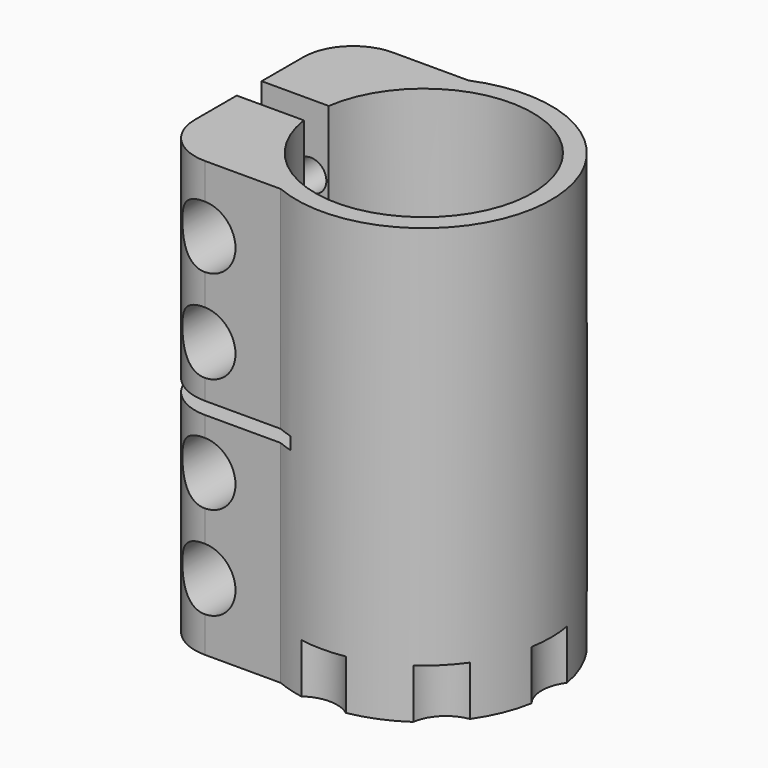
from build123d import *

# Parameters (mm, degrees)
F1_DEPTH       = 35
F3_D           = 5
F3_START       = 1.8205079
F3_CBORE_D     = 10
F3_CBORE_DEPTH = 8
F4_W           = 22.4
F4_H           = 2
F5_DEPTH       = 25
F6_R           = 6
F7_DEPTH       = 8


with BuildPart() as f1:
    # F0 (on Top) → F1 (new body, symmetric)
    with BuildSketch(Plane.XY):
        with BuildLine():
            ThreePointArc((-17.3192642082, 2.5086026559), (17.5, 0), (-17.3192642082, -2.5086026559))
            Line((-17.3192642082, -2.5086026559), (-28.1192642082, -2.5086026559))
            Line((-28.1192642082, -2.5086026559), (-28.1192642082, -10.9086026559))
            ThreePointArc((-28.1192642082, -10.9086026559), (-25.7761184577, -16.5654569054), (-20.1192642082, -18.9086026559))
            Line((-20.1192642082, -18.9086026559), (-7.9192642082, -18.9086026559))
            ThreePointArc((-7.9192642082, -18.9086026559), (20.5, 0), (-7.9192642082, 18.9086026559))
            Line((-7.9192642082, 18.9086026559), (-20.1192642082, 18.9086026559))
            ThreePointArc((-20.1192642082, 18.9086026559), (-25.7761184577, 16.5654569054), (-28.1192642082, 10.9086026559))
            Line((-28.1192642082, 10.9086026559), (-28.1192642082, 2.5086026559))
            Line((-28.1192642082, 2.5086026559), (-17.3192642082, 2.5086026559))
        make_face()
    extrude(amount=F1_DEPTH, both=True)

    # F3 (through all)
    # its depths count from where the whole tool has entered the part; down to there all is cleared
    with Locations(Plane.XZ.offset(18.9086026559).offset(-F3_START)):
        with Locations((-20.2, -24.25), (-20.2, -9.25), (-20.2, 9.25), (-20.2, 24.25)):
            CounterBoreHole(F3_D / 2, F3_CBORE_D / 2, F3_CBORE_DEPTH)

    # F4 (on Front) → F5 (cut, symmetric)
    with BuildSketch(Plane.XZ):
        with Locations((-16.9192642082, 0)):
            Rectangle(F4_W, F4_H)
    extrude(amount=F5_DEPTH, both=True, mode=Mode.SUBTRACT)

    # F6 (on face) → F7 (cut)
    with BuildSketch(Plane(origin=(0, 0, -35), x_dir=(1, 0, 0), z_dir=(0, 0, -1))):
        with Locations((0, 25)):
            Circle(F6_R)
        with Locations((17.6776695297, 17.6776695297)):
            Circle(F6_R)
        with Locations((25, 0)):
            Circle(F6_R)
        with Locations((17.6776695297, -17.6776695297)):
            Circle(F6_R)
        with Locations((0, -25)):
            Circle(F6_R)
    extrude(amount=-F7_DEPTH, mode=Mode.SUBTRACT)


solid = f1.part
